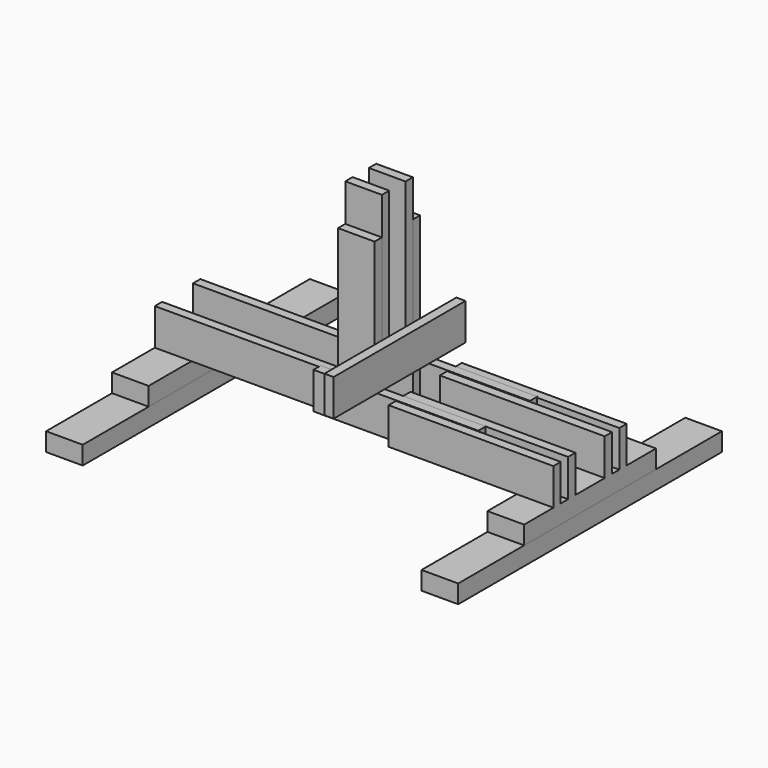
from build123d import *

# Parameters (mm, degrees)
F0_W      = 25.4
F0_H      = 114.3
F1_DEPTH  = 12.7
F2_W      = 25.4
F2_H      = 114.3
F3_DEPTH  = 12.7
F4_W      = 6.35
F4_H      = 25.4
F4_H_2    = 25.8404441833
F4_H_3    = 25.4999750018
F5_DEPTH  = 114.3
F6_W      = 114.3
F6_H      = 6.35
F7_DEPTH  = 25.4
F8_W      = 12.7
F8_H      = 25.4
F8_W_2    = 114.3
F9_DEPTH  = 6.35
F10_W     = 127
F10_H     = 6.35
F11_DEPTH = 25.4
F12_W     = 25.4
F12_H     = 6.35
F13_DEPTH = 114.3
F14_W     = 6.35
F14_H     = 114.3
F15_DEPTH = 25.4
F16_W     = 6.35
F16_H     = 114.3
F17_DEPTH = 25.4
F18_W     = 114.3
F18_H     = 25.4
F19_DEPTH = 6.35


with BuildPart() as f1:
    # F0 (on Top) → F1 (new body)
    with BuildSketch(Plane.XY):
        with Locations((12.7, 57.15)):
            Rectangle(F0_W, F0_H)
        with Locations((12.7, 171.45)):
            Rectangle(F0_W, F0_H)
    extrude(amount=F1_DEPTH)


with BuildPart() as f1b:
    # F0 (on Top) → F1, piece 2 (new body)
    with BuildSketch(Plane.XY):
        with Locations((-247.65, 57.15)):
            Rectangle(F0_W, F0_H)
        with Locations((-247.65, 171.45)):
            Rectangle(F0_W, F0_H)
    extrude(amount=F1_DEPTH)


with BuildPart() as f3:
    # F2 (on face) → F3 (new body)
    with BuildSketch(Plane.XY.offset(12.7)):
        with Locations((-247.65, 114.3)):
            Rectangle(F2_W, F2_H)
    extrude(amount=F3_DEPTH)


with BuildPart() as f3b:
    # F2 (on face) → F3, piece 2 (new body)
    with BuildSketch(Plane.XY.offset(12.7)):
        with Locations((12.7, 114.3)):
            Rectangle(F2_W, F2_H)
    extrude(amount=F3_DEPTH)

    # F4 (on face) → F5 (join)
    with BuildSketch(Plane.YZ.offset(25.4)):
        with Locations((85.725, 38.1)):
            Rectangle(F4_W, F4_H)
        with Locations((142.875, 38.1)):
            Rectangle(F4_W, F4_H)
        with Locations((98.425, 38.3202220917)):
            Rectangle(F4_W, F4_H_2)
        with Locations((130.175, 38.1499875009)):
            Rectangle(F4_W, F4_H_3)
    extrude(amount=-F5_DEPTH)


with BuildPart() as f7:
    # F6 (on face) → F7 (new body)
    with BuildSketch(Plane.XY.offset(51.2404441833)):
        with Locations((-88.9, 92.075)):
            Rectangle(F6_W, F6_H)
    extrude(amount=-F7_DEPTH)


with BuildPart() as f7b:
    # F6 (on face) → F7, piece 2 (new body)
    with BuildSketch(Plane.XY.offset(51.2404441833)):
        with Locations((-88.9, 136.8542856455)):
            Rectangle(F6_W, F6_H)
    extrude(amount=-F7_DEPTH)


with BuildPart() as f9:
    # F8 (on face) → F9 (new body)
    with BuildSketch(Plane.XZ.offset(-133.6792856455)):
        with Locations((-139.7, 38.5404441833)):
            Rectangle(F8_W, F8_H)
        with Locations((-203.2, 38.5404441833)):
            Rectangle(F8_W_2, F8_H)
    extrude(amount=F9_DEPTH)


with BuildPart() as f11:
    # F10 (on face) → F11 (new body)
    with BuildSketch(Plane.XY.offset(25.4)):
        with Locations((-196.85, 97.4058008671)):
            Rectangle(F10_W, F10_H)
    extrude(amount=F11_DEPTH)


with BuildPart() as f13:
    # F12 (on face) → F13 (new body)
    with BuildSketch(Plane(origin=(0, 0, 25.4), x_dir=(1, 0, 0), z_dir=(0, 0, -1))):
        with Locations((-120.65, -97.4058008671)):
            Rectangle(F12_W, F12_H)
    extrude(amount=-F13_DEPTH)

    # F18 (on face) → F19 (join)
    with BuildSketch(Plane.YZ.offset(-107.95)):
        with Locations((107.95, 64.0690114021)):
            Rectangle(F18_W, F18_H)
    extrude(amount=F19_DEPTH)


with BuildPart() as f13b:
    # F12 (on face) → F13, piece 2 (new body)
    with BuildSketch(Plane(origin=(0, 0, 25.4), x_dir=(1, 0, 0), z_dir=(0, 0, -1))):
        with Locations((-120.65, -130.5542939425)):
            Rectangle(F12_W, F12_H)
    extrude(amount=-F13_DEPTH)


with BuildPart() as f15:
    # F14 (on face) → F15 (new body)
    with BuildSketch(Plane.YZ.offset(-107.95)):
        with Locations((124.2042939425, 108.3719928205)):
            Rectangle(F14_W, F14_H)
    extrude(amount=-F15_DEPTH)


with BuildPart() as f17:
    # F16 (on face) → F17 (new body)
    with BuildSketch(Plane.YZ.offset(-107.95)):
        with Locations((103.7558008671, 108.5190114021)):
            Rectangle(F16_W, F16_H)
    extrude(amount=-F17_DEPTH)


solid = Compound([f1.part, f1b.part, f3.part, f3b.part, f7.part, f7b.part, f9.part, f11.part, f13.part, f13b.part, f15.part, f17.part])
